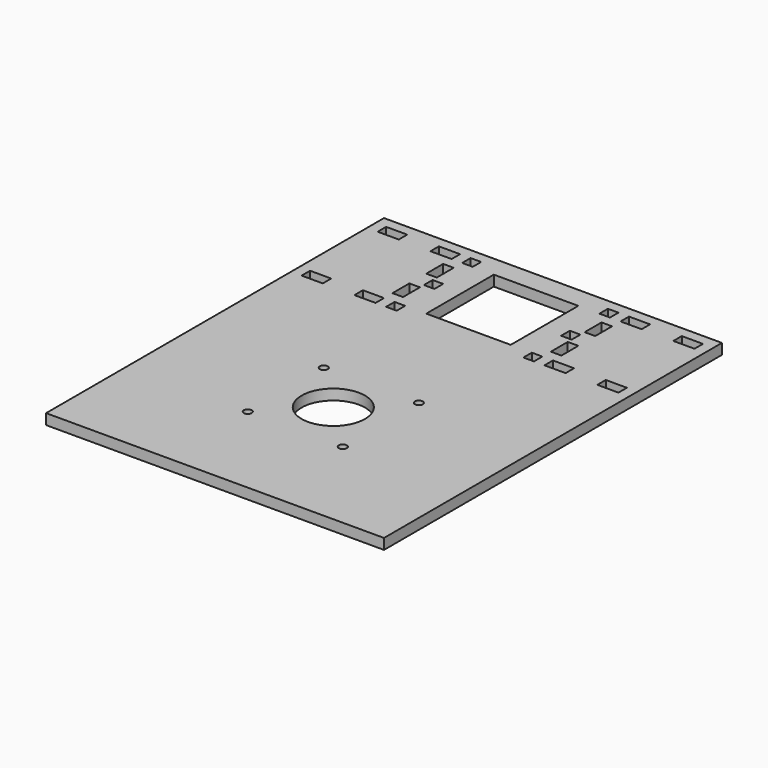
from build123d import *

# Parameters (mm, degrees)
F0_W     = 203.2
F0_H     = 254
F0_R     = 2.38125
F0_R_2   = 19.05
F0_W_2   = 12.7
F0_H_2   = 6.35
F0_W_3   = 6.35
F0_H_3   = 12.7
F0_H_4   = 6.567365
F0_W_4   = 50.8
F0_H_5   = 50.8
F1_DEPTH = 6.35


with BuildPart() as f1:
    # F0 (on Top) → F1 (new body)
    with BuildSketch(Plane.XY):
        with Locations((101.6, 127)):
            Rectangle(F0_W, F0_H)
        with Locations((73.025, 60.325)):
            Circle(F0_R, mode=Mode.SUBTRACT)
        with Locations((101.6, 88.9)):
            Circle(F0_R_2, mode=Mode.SUBTRACT)
        with Locations((73.025, 117.475)):
            Circle(F0_R, mode=Mode.SUBTRACT)
        with Locations((130.175, 60.325)):
            Circle(F0_R, mode=Mode.SUBTRACT)
        with Locations((130.175, 117.475)):
            Circle(F0_R, mode=Mode.SUBTRACT)
        with Locations((12.7, 187.325)):
            Rectangle(F0_W_2, F0_H_2, mode=Mode.SUBTRACT)
        with Locations((44.45, 187.325)):
            Rectangle(F0_W_2, F0_H_2, mode=Mode.SUBTRACT)
        with Locations((60.325, 187.325)):
            Rectangle(F0_W_3, F0_H_2, mode=Mode.SUBTRACT)
        with Locations((12.7, 244.475)):
            Rectangle(F0_W_2, F0_H_2, mode=Mode.SUBTRACT)
        with Locations((44.45, 244.475)):
            Rectangle(F0_W_2, F0_H_2, mode=Mode.SUBTRACT)
        with Locations((53.975, 203.2)):
            Rectangle(F0_W_3, F0_H_3, mode=Mode.SUBTRACT)
        with Locations((60.325, 215.791317)):
            Rectangle(F0_W_3, F0_H_4, mode=Mode.SUBTRACT)
        with Locations((101.6, 215.9)):
            Rectangle(F0_W_4, F0_H_5, mode=Mode.SUBTRACT)
        with Locations((53.975, 228.6)):
            Rectangle(F0_W_3, F0_H_3, mode=Mode.SUBTRACT)
        with Locations((60.325, 244.475)):
            Rectangle(F0_W_3, F0_H_2, mode=Mode.SUBTRACT)
        with Locations((142.875, 187.325)):
            Rectangle(F0_W_3, F0_H_2, mode=Mode.SUBTRACT)
        with Locations((158.75, 187.325)):
            Rectangle(F0_W_2, F0_H_2, mode=Mode.SUBTRACT)
        with Locations((190.5, 187.325)):
            Rectangle(F0_W_2, F0_H_2, mode=Mode.SUBTRACT)
        with Locations((149.225, 203.2)):
            Rectangle(F0_W_3, F0_H_3, mode=Mode.SUBTRACT)
        with Locations((142.875, 215.791317)):
            Rectangle(F0_W_3, F0_H_4, mode=Mode.SUBTRACT)
        with Locations((149.225, 228.6)):
            Rectangle(F0_W_3, F0_H_3, mode=Mode.SUBTRACT)
        with Locations((142.875, 244.475)):
            Rectangle(F0_W_3, F0_H_2, mode=Mode.SUBTRACT)
        with Locations((158.75, 244.475)):
            Rectangle(F0_W_2, F0_H_2, mode=Mode.SUBTRACT)
        with Locations((190.5, 244.475)):
            Rectangle(F0_W_2, F0_H_2, mode=Mode.SUBTRACT)
    extrude(amount=F1_DEPTH)


solid = f1.part
